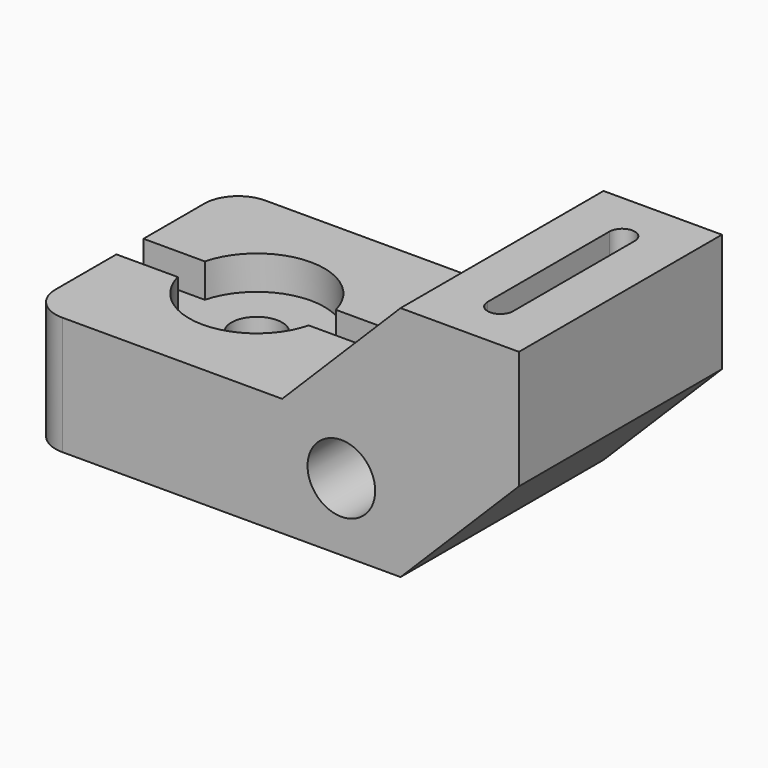
from build123d import *

# Parameters (mm, degrees)
F1_DEPTH       = 76.2
F2_R           = 10.16
F3_DEPTH       = 76.201
F4_W           = 10.16
F4_H           = 10.16
F5_DEPTH       = 76.2
F7_D           = 15.24
F7_START       = 10.16
F7_CBORE_D     = 40.64
F7_CBORE_DEPTH = 0
F9_DEPTH       = 27.94
F10_R          = 10.16


with BuildPart() as f1:
    # F0 (on Front) → F1 (new body)
    with BuildSketch(Plane.XZ):
        Polygon((-55.88, 35.56), (-55.88, 0), (55.88, 0), (91.44, 35.56), (91.44, 71.12), (55.88, 71.12), (20.32, 35.56), align=None)
    extrude(amount=F1_DEPTH)

    # F2 (on face) → F3 (cut, through all)
    with BuildSketch(Plane.XZ.offset(76.2)):
        with Locations((38.1, 20.32)):
            Circle(F2_R)
    extrude(amount=-F3_DEPTH, mode=Mode.SUBTRACT)

    # F4 (on face) → F5 (cut)
    with BuildSketch(Plane(origin=(-55.88, 0, 0), x_dir=(0, -1, 0), z_dir=(-1, 0, 0))):
        with Locations((38.1, 30.48)):
            Rectangle(F4_W, F4_H)
    extrude(amount=-F5_DEPTH, mode=Mode.SUBTRACT)

    # F7 (through all)
    # its depths count from where the whole tool has entered the part; down to there all is cleared
    with Locations(Plane.XY.offset(35.56).offset(-F7_START)):
        with Locations((-17.78, -38.1)):
            CounterBoreHole(F7_D / 2, F7_CBORE_D / 2, F7_CBORE_DEPTH)

    # F8 (on face) → F9 (cut)
    with BuildSketch(Plane.XY.offset(71.12)):
        with BuildLine():
            Line((77.47, -60.96), (77.47, -15.24))
            ThreePointArc((77.47, -15.24), (73.66, -11.43), (69.85, -15.24))
            Line((69.85, -15.24), (69.85, -60.96))
            ThreePointArc((69.85, -60.96), (73.66, -64.77), (77.47, -60.96))
        make_face()
    extrude(amount=-F9_DEPTH, mode=Mode.SUBTRACT)

    # F10
    f10_edges = [f1.edges().sort_by_distance(p)[0] for p in [
        (-55.88, -76.2, 17.78),
        (-55.88, 0, 17.78),
    ]]
    fillet(f10_edges, radius=F10_R)


solid = f1.part
